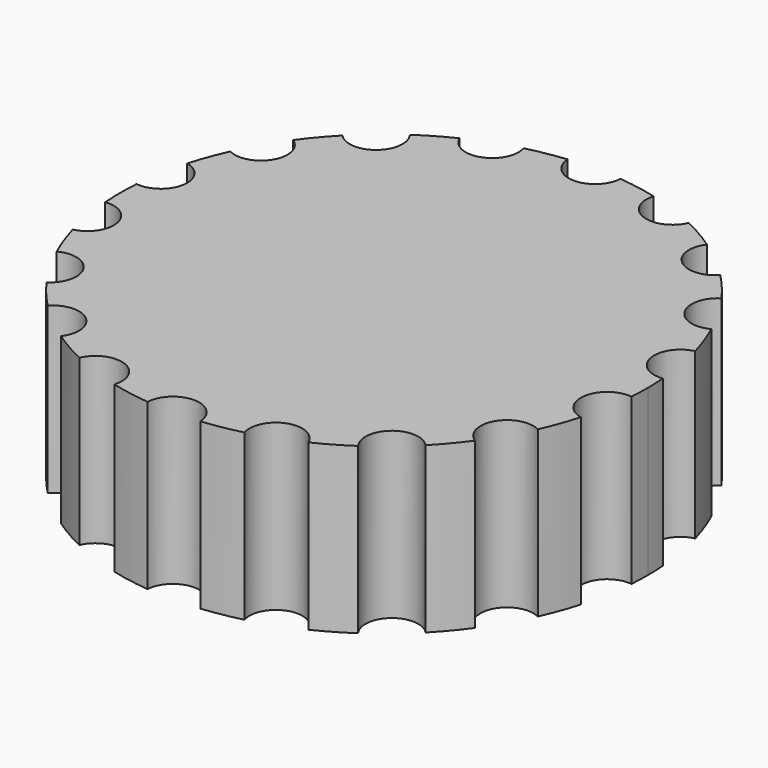
from build123d import *

# Parameters (mm, degrees)
F1_DEPTH = 12.5


with BuildPart() as f1:
    # F0 (on Top) → F1 (new body, symmetric)
    with BuildSketch(Plane.XY):
        with BuildLine():
            ThreePointArc((39.889072, -2.976894), (39.972259, -1.48948), (40, 0))
            ThreePointArc((40, 0), (39.972259, 1.48948), (39.889072, 2.976894))
            ThreePointArc((39.889072, 2.976894), (35.453079, 6.251334), (38.501625, 10.845501))
            ThreePointArc((38.501625, 10.845501), (37.587705, 13.680806), (36.46531, 16.440231))
            ThreePointArc((36.46531, 16.440231), (31.176915, 18), (32.470313, 23.359769))
            ThreePointArc((32.470313, 23.359769), (30.641778, 25.711504), (28.643292, 27.920634))
            ThreePointArc((28.643292, 27.920634), (23.140354, 27.5776), (22.522602, 33.056503))
            ThreePointArc((22.522602, 33.056503), (20, 34.641016), (17.366471, 36.033397))
            ThreePointArc((17.366471, 36.033397), (12.312725, 33.828934), (9.858333, 38.766136))
            ThreePointArc((9.858333, 38.766136), (6.945927, 39.39231), (3.994997, 39.8))
            ThreePointArc((3.994997, 39.8), (0, 36), (-3.994997, 39.8))
            ThreePointArc((-3.994997, 39.8), (-6.945927, 39.39231), (-9.858333, 38.766136))
            ThreePointArc((-9.858333, 38.766136), (-12.312725, 33.828934), (-17.366471, 36.033397))
            ThreePointArc((-17.366471, 36.033397), (-20, 34.641016), (-22.522602, 33.056503))
            ThreePointArc((-22.522602, 33.056503), (-23.140354, 27.5776), (-28.643292, 27.920634))
            ThreePointArc((-28.643292, 27.920634), (-30.641778, 25.711504), (-32.470313, 23.359769))
            ThreePointArc((-32.470313, 23.359769), (-31.176915, 18), (-36.46531, 16.440231))
            ThreePointArc((-36.46531, 16.440231), (-37.587705, 13.680806), (-38.501625, 10.845501))
            ThreePointArc((-38.501625, 10.845501), (-35.453079, 6.251334), (-39.889072, 2.976894))
            ThreePointArc((-39.889072, 2.976894), (-40, 0), (-39.889072, -2.976894))
            ThreePointArc((-39.889072, -2.976894), (-35.453079, -6.251334), (-38.501625, -10.845501))
            ThreePointArc((-38.501625, -10.845501), (-37.587705, -13.680806), (-36.46531, -16.440231))
            ThreePointArc((-36.46531, -16.440231), (-31.176915, -18), (-32.470313, -23.359769))
            ThreePointArc((-32.470313, -23.359769), (-30.641778, -25.711504), (-28.643292, -27.920634))
            ThreePointArc((-28.643292, -27.920634), (-23.140354, -27.5776), (-22.522602, -33.056503))
            ThreePointArc((-22.522602, -33.056503), (-20, -34.641016), (-17.366471, -36.033397))
            ThreePointArc((-17.366471, -36.033397), (-12.312725, -33.828934), (-9.858333, -38.766136))
            ThreePointArc((-9.858333, -38.766136), (-6.945927, -39.39231), (-3.994997, -39.8))
            ThreePointArc((-3.994997, -39.8), (0, -36), (3.994997, -39.8))
            ThreePointArc((3.994997, -39.8), (6.945927, -39.39231), (9.858333, -38.766136))
            ThreePointArc((9.858333, -38.766136), (12.312725, -33.828934), (17.366471, -36.033397))
            ThreePointArc((17.366471, -36.033397), (20, -34.641016), (22.522602, -33.056503))
            ThreePointArc((22.522602, -33.056503), (23.140354, -27.5776), (28.643292, -27.920634))
            ThreePointArc((28.643292, -27.920634), (30.641778, -25.711504), (32.470313, -23.359769))
            ThreePointArc((32.470313, -23.359769), (31.176915, -18), (36.46531, -16.440231))
            ThreePointArc((36.46531, -16.440231), (37.587705, -13.680806), (38.501625, -10.845501))
            ThreePointArc((38.501625, -10.845501), (35.453079, -6.251334), (39.889072, -2.976894))
        make_face()
    extrude(amount=F1_DEPTH, both=True)


solid = f1.part
